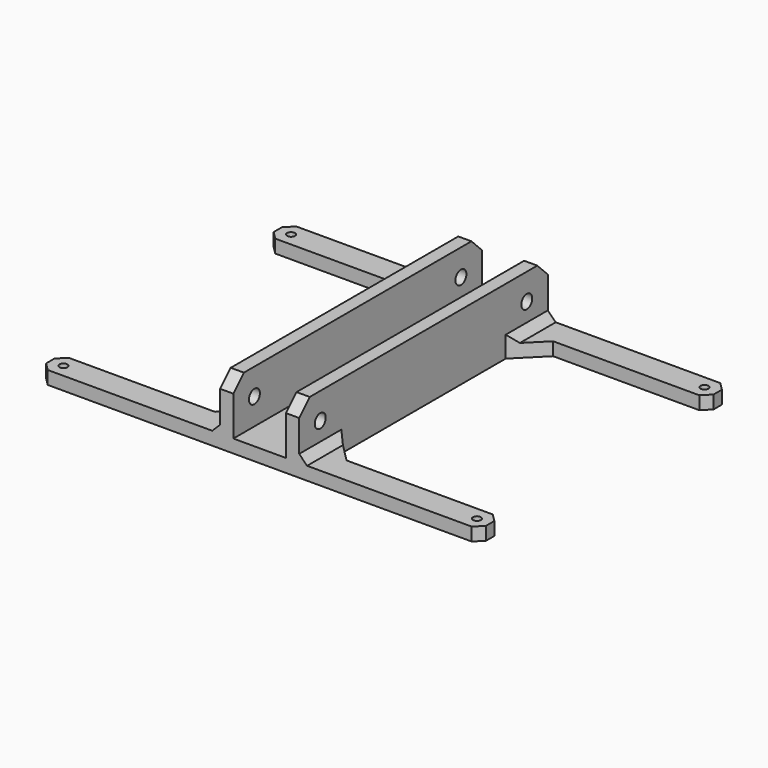
from build123d import *

# Parameters (mm, degrees)
SKETCH_R          = 1.5
PAD_DEPTH         = 5
SKETCH001_W       = 5
SKETCH001_H       = 118
PAD001_DEPTH      = 20
CHAMFER_SIZE      = 3
CHAMFER001_SIZE   = 5
CHAMFER002_SIZE   = 10
CHAMFER003_SIZE   = 3
SKETCH002_R       = 2.6
POCKET_DEPTH      = 17
POCKET_DEPTH_BACK = -100


with BuildPart() as part:
    # Sketch → Pad (new body)
    with BuildSketch(Plane.XY):
        Polygon((-83.5, 59), (-83.5, 49), (-15, 49), (-15, -49), (-83.5, -49), (-83.5, -59), (83.5, -59), (83.5, -49), (15, -49), (15, 49), (83.5, 49), (83.5, 59), align=None)
        with Locations((-78.5, 54)):
            Circle(SKETCH_R, mode=Mode.SUBTRACT)
        with Locations((78.5, 54)):
            Circle(SKETCH_R, mode=Mode.SUBTRACT)
        with Locations((78.5, -54)):
            Circle(SKETCH_R, mode=Mode.SUBTRACT)
        with Locations((-78.5, -54)):
            Circle(SKETCH_R, mode=Mode.SUBTRACT)
    extrude(amount=-PAD_DEPTH)

    # Sketch001 → Pad001 (join)
    with BuildSketch(Plane.XY):
        with Locations((-12.5, 0)):
            Rectangle(SKETCH001_W, SKETCH001_H)
        with Locations((12.5, 0)):
            Rectangle(SKETCH001_W, SKETCH001_H)
    extrude(amount=PAD001_DEPTH)

    # Chamfer
    chamfer_edges = [part.edges().sort_by_distance(p)[0] for p in [
        (-83.5, 49, -2.5),
        (-83.5, 59, -2.5),
        (-83.5, -49, -2.5),
        (-83.5, -59, -2.5),
        (83.5, -59, -2.5),
        (83.5, 49, -2.5),
        (83.5, 59, -2.5),
        (83.5, -49, -2.5),
    ]]
    chamfer(chamfer_edges, length=CHAMFER_SIZE)

    # Chamfer001
    chamfer001_edges = [part.edges().sort_by_distance(p)[0] for p in [
        (-12.5, -59, 20),
        (12.5, -59, 20),
        (12.5, 59, 20),
        (-12.5, 59, 20),
    ]]
    chamfer(chamfer001_edges, length=CHAMFER001_SIZE)

    # Chamfer002
    chamfer002_edges = [part.edges().sort_by_distance(p)[0] for p in [
        (-15, 49, -2.5),
        (-15, -49, -2.5),
        (15, -49, -2.5),
        (15, 49, -2.5),
    ]]
    chamfer(chamfer002_edges, length=CHAMFER002_SIZE)

    # Chamfer003
    chamfer003_edges = [part.edges().sort_by_distance(p)[0] for p in [
        (-15, 54, 0),
        (-15, -54, 0),
        (15, -54, 0),
        (15, 54, 0),
    ]]
    chamfer(chamfer003_edges, length=CHAMFER003_SIZE)

    # Sketch002 → Pocket (cut, two sides)
    with BuildSketch(Plane.YZ) as pocket_sk:
        with Locations((-49, 10)):
            Circle(SKETCH002_R)
        with Locations((49, 10)):
            Circle(SKETCH002_R)
    extrude(amount=-POCKET_DEPTH, mode=Mode.SUBTRACT)
    extrude(pocket_sk.sketch, amount=-POCKET_DEPTH_BACK, mode=Mode.SUBTRACT)


solid = part.part
